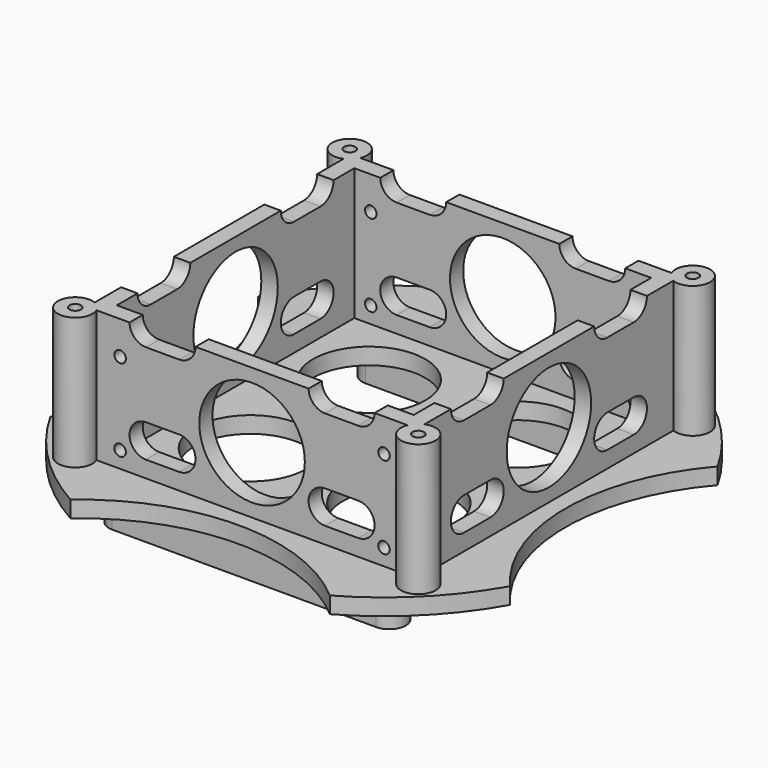
from build123d import *

# Parameters (mm, degrees)
SKETCH_R        = 80
PAD_DEPTH       = 5
PAD001_DEPTH    = 40
SKETCH003_W     = 90
SKETCH003_H     = 90
POCKET_DEPTH    = 40
SKETCH004_R     = 1.75
POCKET001_DEPTH = 45.001
SKETCH005_R     = 17
SKETCH005_R_2   = 60
POCKET002_DEPTH = 5.001
SKETCH006_R     = 16
POCKET003_DEPTH = 119.674913
SKETCH007_R     = 16
POCKET004_DEPTH = 119.674913
PAD002_DEPTH    = 10
SKETCH010_R     = 1.75
POCKET005_DEPTH = 119.674913


with BuildPart() as part:
    # Sketch → Pad (new body)
    with BuildSketch(Plane.XY):
        Circle(SKETCH_R)
    extrude(amount=PAD_DEPTH)

    # Sketch002 → Pad001 (new body)
    with BuildSketch(Plane.XY.offset(5)):
        with BuildLine():
            ThreePointArc((-47.145878, 50), (-55.712311, 55.712311), (-50, 47.145878))
            Line((-50, -47.145878), (-50, 47.145878))
            ThreePointArc((-50, -47.145878), (-55.712311, -55.712311), (-47.145878, -50))
            Line((47.145878, -50), (-47.145878, -50))
            ThreePointArc((47.145878, -50), (55.712311, -55.712311), (50, -47.145878))
            Line((50, 47.145878), (50, -47.145878))
            ThreePointArc((50, 47.145878), (55.712311, 55.712311), (47.145878, 50))
            Line((-47.145878, 50), (47.145878, 50))
        make_face()
    extrude(amount=PAD001_DEPTH)

    # Sketch003 → Pocket (cut)
    with BuildSketch(Plane.XY.offset(45)):
        Rectangle(SKETCH003_W, SKETCH003_H)
    extrude(amount=-POCKET_DEPTH, mode=Mode.SUBTRACT)

    # Sketch004 → Pocket001 (cut, through all)
    with BuildSketch(Plane.XY.offset(45)):
        with Locations((-52, -52)):
            Circle(SKETCH004_R)
        with Locations((52, 52)):
            Circle(SKETCH004_R)
        with Locations((52, -52)):
            Circle(SKETCH004_R)
        with Locations((-52, 52)):
            Circle(SKETCH004_R)
    extrude(amount=-POCKET001_DEPTH, mode=Mode.SUBTRACT)

    # Sketch005 → Pocket002 (cut, through all)
    with BuildSketch(Plane.XY.offset(5)):
        with Locations((-22.5, 22.5)):
            Circle(SKETCH005_R)
        with Locations((22.5, 22.5)):
            Circle(SKETCH005_R)
        with Locations((-22.5, -22.5)):
            Circle(SKETCH005_R)
        with Locations((22.5, -22.5)):
            Circle(SKETCH005_R)
        with Locations((0, -115)):
            Circle(SKETCH005_R_2)
        with Locations((-115, 0)):
            Circle(SKETCH005_R_2)
        with Locations((115, 0)):
            Circle(SKETCH005_R_2)
        with Locations((0, 115)):
            Circle(SKETCH005_R_2)
    extrude(amount=-POCKET002_DEPTH, mode=Mode.SUBTRACT)

    # Sketch006 → Pocket003 (cut, through all)
    with BuildSketch(Plane.YZ.offset(50)):
        with Locations((0, 25)):
            Circle(SKETCH006_R)
        with BuildLine():
            ThreePointArc((-32.145878, 50), (-37.145878, 45), (-32.145878, 40))
            Line((-32.145878, 40), (-22.145878, 40))
            ThreePointArc((-22.145878, 40), (-17.145878, 45), (-22.145878, 50))
            Line((-32.145878, 50), (-22.145878, 50))
        make_face()
        with BuildLine():
            ThreePointArc((22.145904, 50), (17.145878, 45.000013), (22.145878, 40))
            Line((22.145878, 40), (32.145878, 40))
            ThreePointArc((32.145878, 40), (37.145878, 44.999989), (32.1459, 50))
            Line((22.145904, 50), (32.1459, 50))
        make_face()
        with BuildLine():
            ThreePointArc((-32.145847, 20), (-37.145878, 15.000015), (-32.145878, 10))
            Line((-32.145878, 10), (-22.145878, 10))
            ThreePointArc((-22.145878, 10), (-17.145878, 14.999986), (-22.145849, 20))
            Line((-32.145847, 20), (-22.145849, 20))
        make_face()
        with BuildLine():
            ThreePointArc((22.145861, 20), (17.145878, 14.999992), (22.145878, 10))
            Line((22.145878, 10), (32.145878, 10))
            ThreePointArc((32.145878, 10), (37.145878, 15.000009), (32.14586, 20))
            Line((22.145861, 20), (32.14586, 20))
        make_face()
    extrude(amount=-POCKET003_DEPTH, mode=Mode.SUBTRACT)

    # Sketch007 → Pocket004 (cut, through all)
    with BuildSketch(Plane.XZ.offset(50)):
        with Locations((0, 25)):
            Circle(SKETCH007_R)
        with BuildLine():
            ThreePointArc((-32.145883, 50), (-37.145878, 45), (-32.145883, 40))
            Line((-32.145883, 40), (-22.145873, 40))
            ThreePointArc((-22.145873, 40), (-17.145878, 45), (-22.145873, 50))
            Line((-32.145883, 50), (-22.145873, 50))
        make_face()
        with BuildLine():
            ThreePointArc((32.145897, 40), (37.145878, 45), (32.145898, 50))
            Line((32.145898, 50), (22.145895, 50))
            ThreePointArc((22.145895, 50), (17.145878, 45.000001), (22.145893, 40))
            Line((32.145897, 40), (22.145893, 40))
        make_face()
        with BuildLine():
            ThreePointArc((-32.145897, 20), (-37.145878, 14.99999), (-32.145878, 10))
            Line((-32.145878, 10), (-22.145878, 10))
            ThreePointArc((-22.145878, 10), (-17.145878, 15.000011), (-22.145899, 20))
            Line((-32.145897, 20), (-22.145899, 20))
        make_face()
        with BuildLine():
            ThreePointArc((22.145901, 20), (17.145878, 15.000011), (22.145878, 10))
            Line((22.145878, 10), (32.145878, 10))
            ThreePointArc((32.145878, 10), (37.145878, 14.999989), (32.1459, 20))
            Line((22.145901, 20), (32.1459, 20))
        make_face()
    extrude(amount=-POCKET004_DEPTH, mode=Mode.SUBTRACT)

    # Sketch008 → Pad002 (new body)
    with BuildSketch(Plane(origin=(0, 0, 0), x_dir=(1, 0, 0), z_dir=(0, 0, -1))):
        with BuildLine():
            ThreePointArc((-40.000017, 53), (-45, 48), (-40.000017, 43))
            Line((-40.000017, 43), (39.999994, 43))
            ThreePointArc((39.999994, 43), (45, 48), (39.999994, 53))
            Line((-40.000017, 53), (39.999994, 53))
        make_face()
        with BuildLine():
            ThreePointArc((-39.99998, -43), (-45, -48), (-39.99998, -53))
            Line((-39.99998, -53), (40.00001, -53))
            ThreePointArc((40.00001, -53), (45, -48), (40.00001, -43))
            Line((-39.99998, -43), (40.00001, -43))
        make_face()
    extrude(amount=PAD002_DEPTH)

    # Sketch010 → Pocket005 (cut, through all)
    with BuildSketch(Plane(origin=(0, 50, 0), x_dir=(-1, 0, 0), z_dir=(0, 1, 0))):
        with Locations((-40, 34.992924)):
            Circle(SKETCH010_R)
        with Locations((-40, 10)):
            Circle(SKETCH010_R)
        with Locations((40, 10)):
            Circle(SKETCH010_R)
        with Locations((40, 34.941413)):
            Circle(SKETCH010_R)
    extrude(amount=-POCKET005_DEPTH, mode=Mode.SUBTRACT)


solid = part.part
